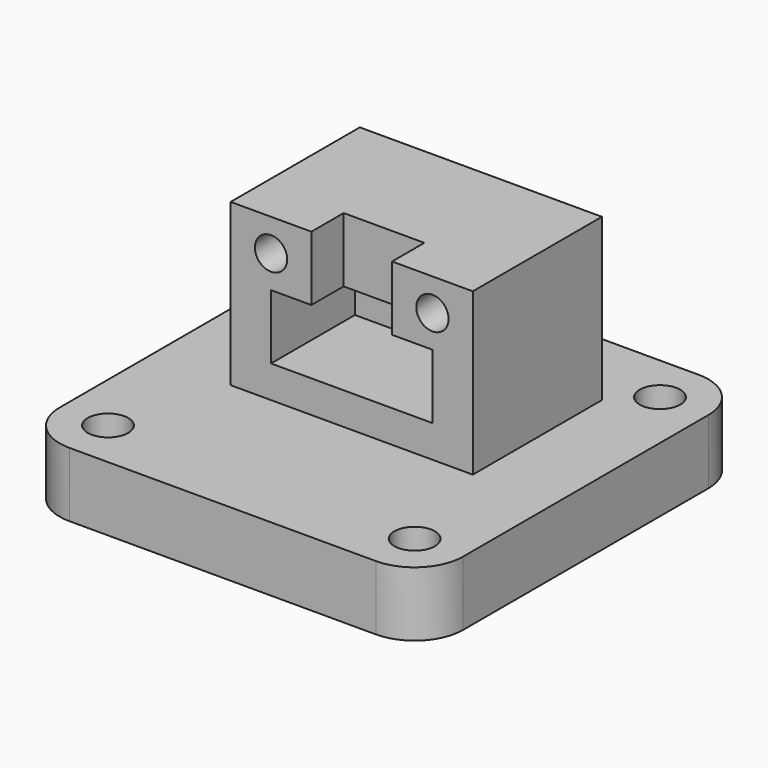
from build123d import *

# Parameters (mm, degrees)
F0_R     = 1.593679
F1_DEPTH = 5.08
F2_W     = 19.05
F2_H     = 12.7
F3_DEPTH = 12.7
F4_W     = 6.35
F4_H     = 5.08
F5_DEPTH = 3.175
F6_W     = 12.7
F6_H     = 5.08
F7_DEPTH = 5.08
F8_R     = 1.27
F9_DEPTH = 12.7


with BuildPart() as f1:
    # F0 (on Top) → F1 (new body)
    with BuildSketch(Plane.XY):
        with BuildLine():
            ThreePointArc((15.875, 12.065), (14.759077, 14.759077), (12.065, 15.875))
            Line((12.065, 15.875), (-12.065, 15.875))
            ThreePointArc((-12.065, 15.875), (-14.759077, 14.759077), (-15.875, 12.065))
            Line((-15.875, 12.065), (-15.875, -12.065))
            ThreePointArc((-15.875, -12.065), (-14.759077, -14.759077), (-12.065, -15.875))
            Line((-12.065, -15.875), (12.065, -15.875))
            ThreePointArc((12.065, -15.875), (14.759077, -14.759077), (15.875, -12.065))
            Line((15.875, -12.065), (15.875, 12.065))
        make_face()
        with Locations((-12.065, -12.065)):
            Circle(F0_R, mode=Mode.SUBTRACT)
        with Locations((12.065, -12.065)):
            Circle(F0_R, mode=Mode.SUBTRACT)
        with Locations((-12.065, 12.065)):
            Circle(F0_R, mode=Mode.SUBTRACT)
        with Locations((12.065, 12.065)):
            Circle(F0_R, mode=Mode.SUBTRACT)
    extrude(amount=F1_DEPTH)

    # F2 (on face) → F3 (join)
    with BuildSketch(Plane.XY.offset(5.08)):
        with Locations((0, 3.175)):
            Rectangle(F2_W, F2_H)
    extrude(amount=F3_DEPTH)

    # F4 (on face) → F5 (cut)
    with BuildSketch(Plane.XZ.offset(3.175)):
        with Locations((0, 15.24)):
            Rectangle(F4_W, F4_H)
        Polygon((3.175, 12.7), (-3.175, 12.7), (-6.35, 12.7), (-6.35, 7.62), (6.35, 7.62), (6.35, 12.7), align=None)
    extrude(amount=-F5_DEPTH, mode=Mode.SUBTRACT)

    # F6 (on face) → F7 (cut)
    with BuildSketch(Plane.XZ):
        with Locations((0, 10.16)):
            Rectangle(F6_W, F6_H)
    extrude(amount=-F7_DEPTH, mode=Mode.SUBTRACT)

    # F8 (on face) → F9 (cut)
    with BuildSketch(Plane.XZ.offset(3.175)):
        with Locations((-6.35, 15.24)):
            Circle(F8_R)
        with Locations((6.35, 15.24)):
            Circle(F8_R)
    extrude(amount=-F9_DEPTH, mode=Mode.SUBTRACT)


solid = f1.part
